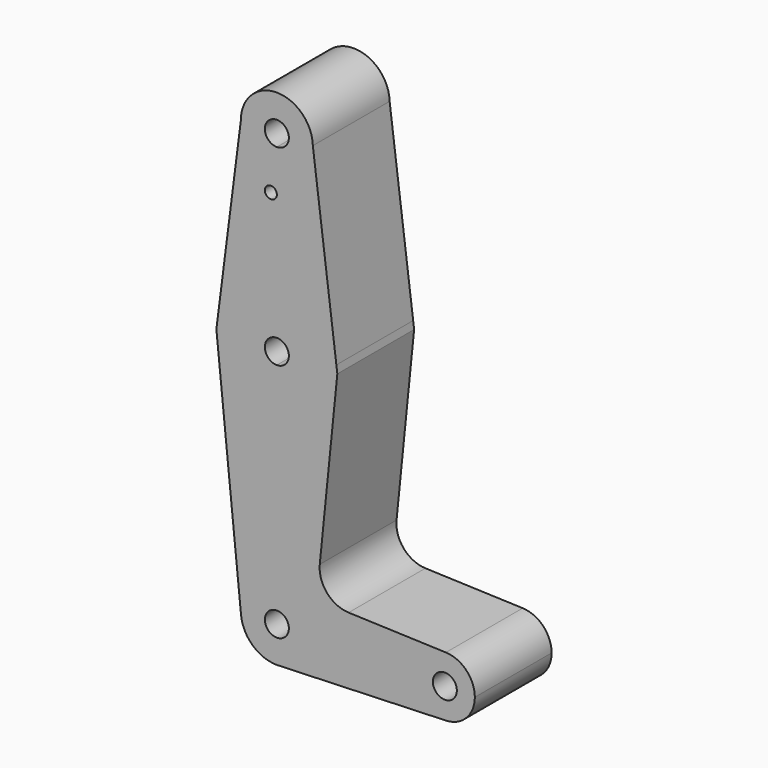
from build123d import *

# Parameters (mm, degrees)
F0_R     = 1.5875
F1_DEPTH = 25.4


with BuildPart() as f1:
    # F0 (on Front) → F1 (new body)
    with BuildSketch(Plane.XZ):
        with BuildLine():
            ThreePointArc((0, -3.175), (-3.175, 0), (0, 3.175))
            Line((0, 3.175), (0, 15.875))
            ThreePointArc((0, 15.875), (-10.4901713759, 11.9151974178), (-15.7470819389, 2.0112273392))
            ThreePointArc((-15.7470819389, 2.0112273392), (-11.9151974178, -10.4901713759), (0, -15.875))
            Line((0, -15.875), (0, -3.175))
        make_face()
        with BuildLine():
            Line((0, 15.875), (0, 3.175))
            ThreePointArc((0, 3.175), (2.2450640303, 2.2450640303), (3.175, 0))
            ThreePointArc((3.175, 0), (2.2450640303, -2.2450640303), (0, -3.175))
            Line((0, -3.175), (0, -15.875))
            ThreePointArc((0, -15.875), (11.2253201513, -11.2253201513), (15.875, 0))
            ThreePointArc((15.875, 0), (15.8433599301, 1.0017839713), (15.7485658425, 1.9995746809))
            ThreePointArc((15.7485658425, 1.9995746809), (10.4945790039, 11.9113154828), (0, 15.875))
        make_face()
        with BuildLine():
            ThreePointArc((-15.7470819389, 2.0112273392), (-10.4901713759, 11.9151974178), (0, 15.875))
            Line((0, 15.875), (0, 36.5252))
            Line((0, 36.5252), (0, 41.275))
            ThreePointArc((0, 41.275), (-6.7102581313, 44.0399659164), (-9.5247398797, 50.7296066537))
            Line((-9.5247398797, 50.7296066537), (-15.7470819389, 2.0112273392))
        make_face()
        with Locations((-1.5875, 36.5252)):
            Circle(F0_R, mode=Mode.SUBTRACT)
        with BuildLine():
            Line((0, 36.5252), (0, 15.875))
            ThreePointArc((0, 15.875), (10.4945790039, 11.9113154828), (15.7485658425, 1.9995746809))
            Line((15.7485658425, 1.9995746809), (9.5219777707, 51.0399256846))
            ThreePointArc((9.5219777707, 51.0399256846), (9.5242444127, 50.9199723593), (9.525, 50.8))
            ThreePointArc((9.525, 50.8), (6.7351920908, 44.0648079092), (0, 41.275))
            Line((0, 41.275), (0, 36.5252))
        make_face()
        with BuildLine():
            ThreePointArc((15.875, 0), (11.2253201513, -11.2253201513), (0, -15.875))
            Line((0, -15.875), (0, -53.975))
            ThreePointArc((0, -53.975), (6.7351920908, -56.7648079092), (9.525, -63.5))
            Line((9.525, -63.5), (36.5125, -63.5))
            ThreePointArc((36.5125, -63.5), (38.9380895153, -57.7883672161), (44.7324052746, -55.5675253854))
            Line((44.7324052746, -55.5675253854), (18.9819405343, -54.6507790461))
            ThreePointArc((18.9819405343, -54.6507790461), (13.2729113611, -51.9308376972), (11.3550302967, -45.9048251463))
            Line((11.3550302967, -45.9048251463), (16.0024491774, 0))
            Line((16.0024491774, 0), (15.7485658425, 1.9995746809))
            ThreePointArc((15.7485658425, 1.9995746809), (15.8433599301, 1.0017839713), (15.875, 0))
        make_face()
        with BuildLine():
            Line((0, -53.975), (0, -15.875))
            ThreePointArc((0, -15.875), (-11.9151974178, -10.4901713759), (-15.7470819389, 2.0112273392))
            Line((-15.7470819389, 2.0112273392), (-16.0039571601, 0))
            Line((-16.0039571601, 0), (-9.4765361199, -64.4596291825))
            ThreePointArc((-9.4765361199, -64.4596291825), (-7.0663318972, -57.1130931964), (0, -53.975))
        make_face()
        with BuildLine():
            Line((0, -60.325), (0, -53.975))
            ThreePointArc((0, -53.975), (-7.0663318972, -57.1130931964), (-9.4765361199, -64.4596291825))
            ThreePointArc((-9.4765361199, -64.4596291825), (-6.3869068036, -70.5663318972), (0, -73.025))
            Line((0, -73.025), (0.6773435479, -73.000885786))
            ThreePointArc((0.6773435479, -73.000885786), (6.9705567315, -69.9912990883), (9.525, -63.5))
            Line((9.525, -63.5), (3.175, -63.5))
            ThreePointArc((3.175, -63.5), (-2.2450640303, -65.7450640303), (0, -60.325))
        make_face()
        with BuildLine():
            ThreePointArc((-9.5247398797, 50.7296066537), (-6.7102581313, 44.0399659164), (0, 41.275))
            ThreePointArc((0, 41.275), (6.7351920908, 44.0648079092), (9.525, 50.8))
            ThreePointArc((9.525, 50.8), (9.5242444127, 50.9199723593), (9.5219777707, 51.0399256846))
            ThreePointArc((9.5219777707, 51.0399256846), (-0.1551656616, 60.323736064), (-9.5247398797, 50.7296066537))
        make_face()
        with BuildLine():
            ThreePointArc((3.175, 50.8), (2.2450640303, 48.5549359697), (0, 47.625))
            ThreePointArc((0, 47.625), (-2.2450640303, 53.0450640303), (3.175, 50.8))
        make_face(mode=Mode.SUBTRACT)
        with BuildLine():
            Line((36.5125, -63.5), (9.525, -63.5))
            ThreePointArc((9.525, -63.5), (6.9705567315, -69.9912990883), (0.6773435479, -73.000885786))
            Line((0.6773435479, -73.000885786), (44.7324052746, -71.4324746146))
            ThreePointArc((44.7324052746, -71.4324746146), (38.9380895153, -69.2116327839), (36.5125, -63.5))
        make_face()
        with BuildLine():
            ThreePointArc((44.7324052746, -55.5675253854), (38.9380895153, -57.7883672161), (36.5125, -63.5))
            ThreePointArc((36.5125, -63.5), (38.9380895153, -69.2116327839), (44.7324052746, -71.4324746146))
            ThreePointArc((44.7324052746, -71.4324746146), (50.1616327839, -69.0119104847), (52.3875, -63.5))
            ThreePointArc((52.3875, -63.5), (50.1616327839, -57.9880895153), (44.7324052746, -55.5675253854))
        make_face()
        with BuildLine():
            ThreePointArc((47.625, -63.5), (44.45, -66.675), (41.275, -63.5))
            ThreePointArc((41.275, -63.5), (44.45, -60.325), (47.625, -63.5))
        make_face(mode=Mode.SUBTRACT)
        with BuildLine():
            ThreePointArc((0, -73.025), (0.3388863295, -73.0189695375), (0.6773435479, -73.000885786))
            Line((0.6773435479, -73.000885786), (0, -73.025))
        make_face()
        with BuildLine():
            ThreePointArc((9.525, -63.5), (6.7351920908, -56.7648079092), (0, -53.975))
            Line((0, -53.975), (0, -60.325))
            ThreePointArc((0, -60.325), (2.2450640303, -61.2549359697), (3.175, -63.5))
            Line((3.175, -63.5), (9.525, -63.5))
        make_face()
    extrude(amount=F1_DEPTH)


solid = f1.part
